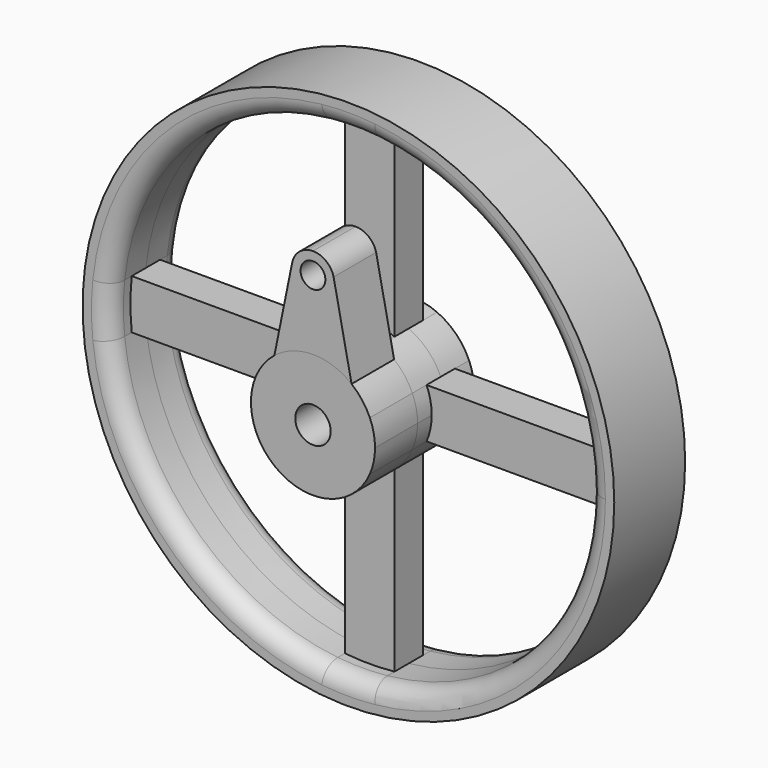
from build123d import *

# Parameters (mm, degrees)
F0_R     = 75
F1_DEPTH = 12.5
F0_R_2   = 5
F2_DEPTH = 10
F3_DEPTH = 5
F4_R     = 5
F5_DEPTH = 15
F6_R     = 3.5
F7_DEPTH = 15
F8_R     = 5


with BuildPart() as f1:
    # F0 (on Front) → F1 (new body, symmetric)
    with BuildSketch(Plane.XZ):
        Circle(F0_R)
        with BuildLine():
            ThreePointArc((7, 67.1360558865), (47.7297077301, 47.7297077301), (67.1360558865, 7))
            ThreePointArc((67.1360558865, 7), (67.4089525669, 3.5047273545), (67.5, 0))
            ThreePointArc((67.5, 0), (67.4089525669, -3.5047273545), (67.1360558865, -7))
            ThreePointArc((67.1360558865, -7), (47.7297077301, -47.7297077301), (7, -67.1360558865))
            ThreePointArc((7, -67.1360558865), (0, -67.5), (-7, -67.1360558865))
            ThreePointArc((-7, -67.1360558865), (-47.7297077301, -47.7297077301), (-67.1360558865, -7))
            ThreePointArc((-67.1360558865, -7), (-67.5, 0), (-67.1360558865, 7))
            ThreePointArc((-67.1360558865, 7), (-47.7297077301, 47.7297077301), (-7, 67.1360558865))
            ThreePointArc((-7, 67.1360558865), (0, 67.5), (7, 67.1360558865))
        make_face(mode=Mode.SUBTRACT)
    extrude(amount=F1_DEPTH, both=True)

    # F8
    f8_edges = [f1.edges().sort_by_distance(p)[0] for p in [
        (-67.5, -12.5, 0),
        (-67.5, 12.5, 0),
    ]]
    fillet(f8_edges, radius=F8_R)


with BuildPart() as f2:
    # F0 (on Front) → F2 (new body, symmetric)
    with BuildSketch(Plane.XZ):
        with BuildLine():
            ThreePointArc((16.0390149323, -7), (17.1308604763, -3.5754187646), (17.5, 0))
            ThreePointArc((17.5, 0), (17.1308604763, 3.5754187646), (16.0390149323, 7))
            ThreePointArc((16.0390149323, 7), (12.3743686708, 12.3743686708), (7, 16.0390149323))
            ThreePointArc((7, 16.0390149323), (0, 17.5), (-7, 16.0390149323))
            ThreePointArc((-7, 16.0390149323), (-12.3743686708, 12.3743686708), (-16.0390149323, 7))
            ThreePointArc((-16.0390149323, 7), (-17.5, 0), (-16.0390149323, -7))
            ThreePointArc((-16.0390149323, -7), (-12.3743686708, -12.3743686708), (-7, -16.0390149323))
            ThreePointArc((-7, -16.0390149323), (0, -17.5), (7, -16.0390149323))
            ThreePointArc((7, -16.0390149323), (12.3743686708, -12.3743686708), (16.0390149323, -7))
        make_face()
        Circle(F0_R_2, mode=Mode.SUBTRACT)
    extrude(amount=F2_DEPTH, both=True)

    # F0 (on Front) → F3 (join, symmetric)
    with BuildSketch(Plane.XZ):
        with BuildLine():
            ThreePointArc((-7, 16.0390149323), (0, 17.5), (7, 16.0390149323))
            Line((7, 16.0390149323), (7, 67.1360558865))
            ThreePointArc((7, 67.1360558865), (0, 67.5), (-7, 67.1360558865))
            Line((-7, 67.1360558865), (-7, 16.0390149323))
        make_face()
        with BuildLine():
            ThreePointArc((16.0390149323, 7), (17.1308604763, 3.5754187646), (17.5, 0))
            ThreePointArc((17.5, 0), (17.1308604763, -3.5754187646), (16.0390149323, -7))
            Line((16.0390149323, -7), (67.1360558865, -7))
            ThreePointArc((67.1360558865, -7), (67.4089525669, -3.5047273545), (67.5, 0))
            ThreePointArc((67.5, 0), (67.4089525669, 3.5047273545), (67.1360558865, 7))
            Line((67.1360558865, 7), (16.0390149323, 7))
        make_face()
        with BuildLine():
            Line((7, -67.1360558865), (7, -16.0390149323))
            ThreePointArc((7, -16.0390149323), (0, -17.5), (-7, -16.0390149323))
            Line((-7, -16.0390149323), (-7, -67.1360558865))
            ThreePointArc((-7, -67.1360558865), (0, -67.5), (7, -67.1360558865))
        make_face()
        with BuildLine():
            ThreePointArc((-16.0390149323, -7), (-17.5, 0), (-16.0390149323, 7))
            Line((-16.0390149323, 7), (-67.1360558865, 7))
            ThreePointArc((-67.1360558865, 7), (-67.5, 0), (-67.1360558865, -7))
            Line((-67.1360558865, -7), (-16.0390149323, -7))
        make_face()
    extrude(amount=F3_DEPTH, both=True)

    # F4 (on face) → F5 (join)
    with BuildSketch(Plane.XZ.offset(10)):
        with BuildLine():
            ThreePointArc((16.0390149323, -7), (17.1308604763, -3.5754187646), (17.5, 0))
            ThreePointArc((17.5, 0), (17.1308604763, 3.5754187646), (16.0390149323, 7))
            ThreePointArc((16.0390149323, 7), (12.3743686708, 12.3743686708), (7, 16.0390149323))
            ThreePointArc((7, 16.0390149323), (0, 17.5), (-7, 16.0390149323))
            ThreePointArc((-7, 16.0390149323), (-12.3743686708, 12.3743686708), (-16.0390149323, 7))
            ThreePointArc((-16.0390149323, 7), (-17.5, 0), (-16.0390149323, -7))
            ThreePointArc((-16.0390149323, -7), (-12.3743686708, -12.3743686708), (-7, -16.0390149323))
            ThreePointArc((-7, -16.0390149323), (0, -17.5), (7, -16.0390149323))
            ThreePointArc((7, -16.0390149323), (12.3743686708, -12.3743686708), (16.0390149323, -7))
        make_face()
        Circle(F4_R, mode=Mode.SUBTRACT)
    extrude(amount=F5_DEPTH)

    # F6 (on face) → F7 (join)
    with BuildSketch(Plane.XZ.offset(25)):
        with BuildLine():
            Line((-5.8208550274, 38.6240740795), (-10.884780211, 13.7029763102))
            ThreePointArc((-10.884780211, 13.7029763102), (0, 17.5), (10.884780211, 13.7029763102))
            Line((10.884780211, 13.7029763102), (5.8208550274, 38.6240740795))
            ThreePointArc((5.8208550274, 38.6240740795), (3.6924732995, 41.8980930299), (0, 43.1688604355))
            ThreePointArc((0, 43.1688604355), (-3.6924732995, 41.8980930299), (-5.8208550274, 38.6240740795))
        make_face()
        with Locations((0, 37.1688604355)):
            Circle(F6_R, mode=Mode.SUBTRACT)
    extrude(amount=-F7_DEPTH)


solid = Compound([f1.part, f2.part])
